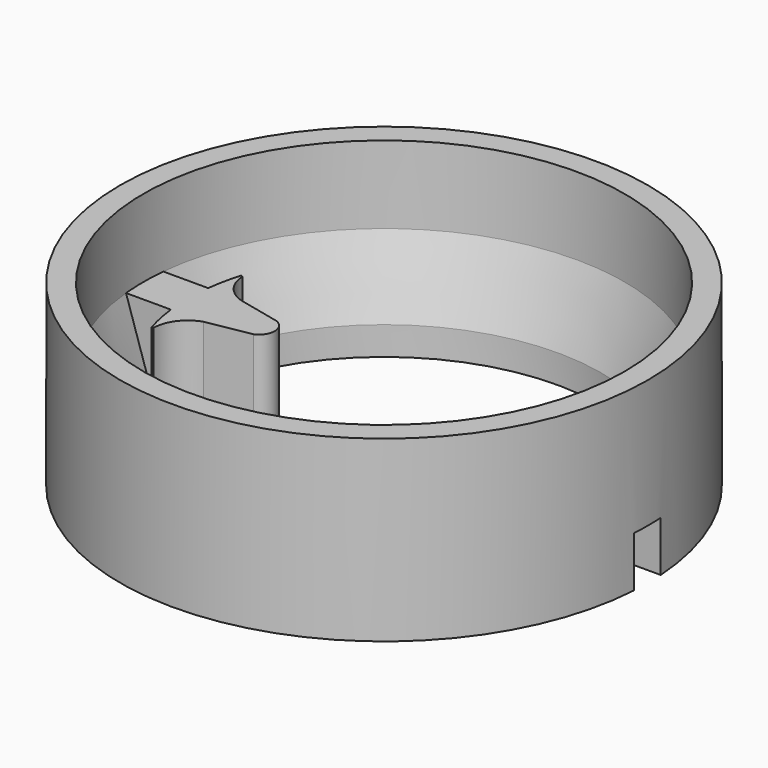
from build123d import *

# Parameters (mm, degrees)
BOX013_W          = 14
BOX013_H          = 4.3
BOX013_DEPTH      = 10
CYLINDER021_R     = 28
CYLINDER021_DEPTH = 4
CYLINDER019_R     = 34
CYLINDER019_DEPTH = 13
CYLINDER020_R     = 25
CYLINDER020_DEPTH = 13
TUBE_R            = 34
TUBE_R_2          = 31
TUBE_DEPTH        = 23
EXTRUDE001_DEPTH  = 14
BOX012_W          = 10
BOX012_H          = 6
BOX012_DEPTH      = 10


with BuildPart() as cube013:
    # Box013 → Box013 (new body)
    with BuildSketch(Plane(origin=(64, 38.5, 50.5), x_dir=(1, 0, 0), z_dir=(0, 0, 1))):
        with Locations((7, 2.15)):
            Rectangle(BOX013_W, BOX013_H)
    extrude(amount=BOX013_DEPTH)


with BuildPart() as cylinder021:
    # Cylinder021 → Cylinder021 (new body)
    with BuildSketch(Plane(origin=(40, 40.65, 54), x_dir=(1, 0, 0), z_dir=(0, 0, 1))):
        Circle(CYLINDER021_R)
    extrude(amount=CYLINDER021_DEPTH)


with BuildPart() as cone:
    # Cone → Cone (revolve)
    with BuildSketch(Plane(origin=(40, 40.65, 53), x_dir=(1, 0, 0), z_dir=(0, -1, 0))):
        Polygon((0, 0), (26.5, 0), (31, 14), (0, 14), align=None)
    revolve(axis=Axis((40, 40.65, 53), (0, 0, 1)))


with BuildPart() as cylinder019:
    # Cylinder019 → Cylinder019 (new body)
    with BuildSketch(Plane(origin=(40, 40.65, 54), x_dir=(1, 0, 0), z_dir=(0, 0, 1))):
        Circle(CYLINDER019_R)
    extrude(amount=CYLINDER019_DEPTH)


with BuildPart() as cylinder020:
    # Cylinder020 → Cylinder020 (new body)
    with BuildSketch(Plane(origin=(40, 39.2, 54), x_dir=(1, 0, 0), z_dir=(0, 0, 1))):
        Circle(CYLINDER020_R)
    extrude(amount=CYLINDER020_DEPTH)


with BuildPart() as cut016:
    # Tube → Tube (new body)
    with BuildSketch(Plane(origin=(40, 40.65, 54), x_dir=(1, 0, 0), z_dir=(0, 0, 1))):
        Circle(TUBE_R)
        Circle(TUBE_R_2, mode=Mode.SUBTRACT)
    extrude(amount=TUBE_DEPTH)

    # Fusion010: union Cylinder019, Cylinder020
    add(cylinder019.part)
    add(cylinder020.part)

    # Cut015: cut Cone
    add(cone.part, mode=Mode.SUBTRACT)

    # Cut016: cut Cylinder021
    add(cylinder021.part, mode=Mode.SUBTRACT)


with BuildPart() as extrude001:
    # Sketch001 → Extrude001 (new body)
    with BuildSketch(Plane(origin=(0, 5, 65), x_dir=(1, 0, 0), z_dir=(0, 0, 1))):
        with BuildLine():
            ThreePointArc((16.057001, 41.301956), (16.937891, 38.759239), (19.112253, 37.173829))
            Line((19.112253, 37.173829), (24.78314, 35.869707))
            ThreePointArc((24.78314, 32.174329), (26.017604, 34.022018), (24.78314, 35.869707))
            Line((19.112253, 31.152458), (24.78314, 32.174329))
            ThreePointArc((19.112253, 31.152458), (16.911676, 29.555757), (16.032372, 26.983051))
            Line((15.813344, 26.918672), (16.032372, 26.983051))
            ThreePointArc((15.808908, 41.376289), (14.743203, 34.147153), (15.813344, 26.918672))
            Line((16.057001, 41.301956), (15.808908, 41.376289))
        make_face()
    extrude(amount=EXTRUDE001_DEPTH)


with BuildPart() as extrude001_1:
    # Extrude001 placement: moved
    add(extrude001.part.moved(Location((0, 0, 7))))


with BuildPart() as lid:
    # Box012 → Box012 (new body)
    with BuildSketch(Plane(origin=(7, 36.17, 76), x_dir=(1, 0, 0), z_dir=(0, 0, 1))):
        with Locations((5, 3)):
            Rectangle(BOX012_W, BOX012_H)
    extrude(amount=BOX012_DEPTH)

    # Fusion006: union Extrude001
    add(extrude001_1.part)


with BuildPart() as lid_1:
    # Fusion006 placement: moved
    add(lid.part.moved(Location((0, 1.5, -19))))

    # Fusion024: union Cut016
    add(cut016.part)

    # Cut017: cut Cube013
    add(cube013.part, mode=Mode.SUBTRACT)


solid = lid_1.part
